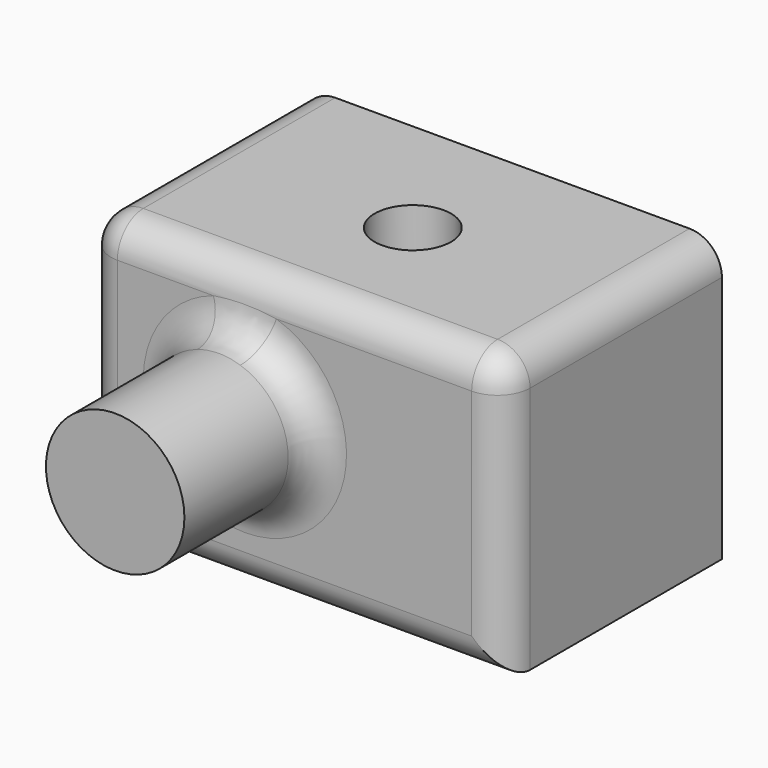
from build123d import *

# Parameters (mm, degrees)
F0_W      = 65.679371357
F0_H      = 43.9539253712
F1_DEPTH  = 42.66227
F2_R      = 10.8490718956
F3_DEPTH  = 25.4
F4_R      = 5.08
F5_R      = 5.08
F6_T      = -2.54
F7_R      = 9.9976961638
F8_DEPTH  = 43.9539253712
F9_R      = 5.9952390319
F10_DEPTH = 65.60373


with BuildPart() as f1:
    # F0 (on Front) → F1 (new body)
    with BuildSketch(Plane.XZ):
        with Locations((32.8396856785, -21.9769626856)):
            Rectangle(F0_W, F0_H)
    extrude(amount=F1_DEPTH)

    # F2 (on face) → F3 (join)
    with BuildSketch(Plane.XZ.offset(42.66227)):
        with Locations((25.0557176769, -20.2263258398)):
            Circle(F2_R)
    extrude(amount=F3_DEPTH)

    # F4
    f4_edges = [f1.edges().sort_by_distance(p)[0] for p in [
        (65.679371, -42.66227, -21.976963),
        (32.839686, -42.66227, 0),
        (0, -42.66227, -21.976963),
        (32.839686, -42.66227, -43.953925),
        (65.679371, -21.331135, 0),
        (0, -21.331135, 0),
        (0, -21.331135, -43.953925),
    ]]
    fillet(f4_edges, radius=F4_R)

    # F5
    f5_edges = [f1.edges().sort_by_distance(p)[0] for p in [
        (60.599371, -42.66227, -21.976963),
        (32.839686, -42.66227, -38.873925),
        (32.839686, -42.66227, -5.08),
        (5.08, -42.66227, -21.976963),
        (14.206646, -42.66227, -20.226326),
    ]]
    fillet(f5_edges, radius=F5_R)

    # F6
    f6_openings = [f1.faces().sort_by_distance(p)[0] for p in [
        (32.90086, 0, -22.017177),
    ]]
    offset(amount=F6_T, openings=f6_openings)

    # F7 (on face) → F8 (join, through all)
    with BuildSketch(Plane(origin=(0, 0, -43.9539253712), x_dir=(1, 0, 0), z_dir=(0, 0, -1))):
        with Locations((34.7353070974, 21.0055503994)):
            Circle(F7_R)
    extrude(amount=-F8_DEPTH)

    # F9 (on face) → F10 (cut)
    with BuildSketch(Plane(origin=(0, 0, -43.9539253712), x_dir=(1, 0, 0), z_dir=(0, 0, -1))):
        with Locations((34.0243950486, 20.9764167666)):
            Circle(F9_R)
    extrude(amount=-F10_DEPTH, mode=Mode.SUBTRACT)


solid = f1.part
